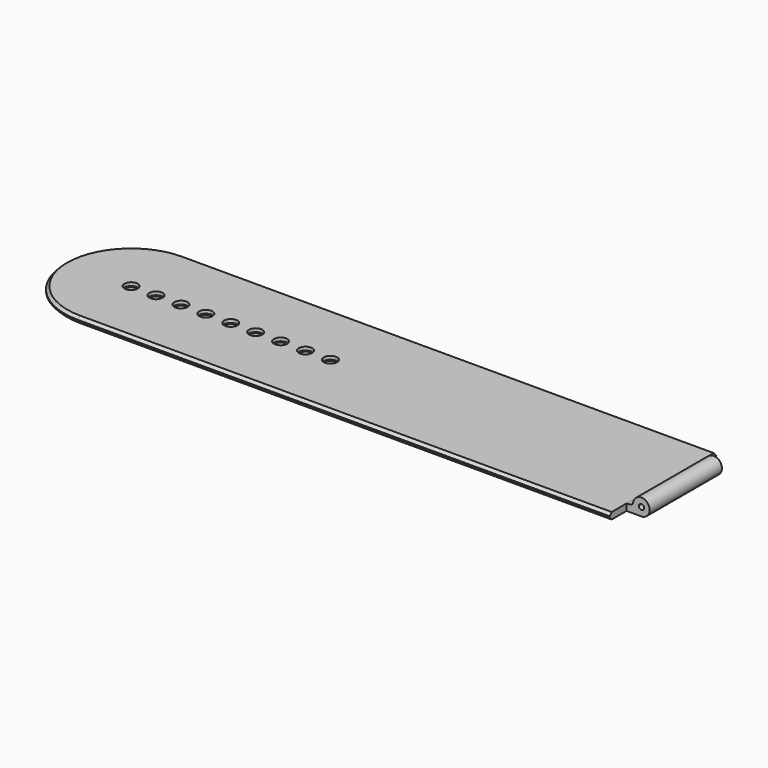
from build123d import *

# Parameters (mm, degrees)
PAD_DEPTH              = 1
PAD001_DEPTH           = 6.8
PAD001_DEPTH_BACK      = 6.8
CYLINDER_R             = 0.4
CYLINDER_DEPTH         = 13.6
CYLINDER001_R          = 1
CYLINDER001_DEPTH      = 0.5
LINEARPATTERN_COUNT    = 9
LINEARPATTERN_PITCH    = 3.75
CYLINDER002_R          = 0.7
CYLINDER002_DEPTH      = 0.5
LINEARPATTERN001_COUNT = 9
LINEARPATTERN001_PITCH = 3.75
CHAMFER_SIZE           = 0.4


with BuildPart() as part:
    # Sketch → Pad (new body)
    with BuildSketch(Plane.XY):
        with BuildLine():
            Line((0, 10), (80, 10))
            Line((80, 10), (80, -10))
            Line((0, -10), (80, -10))
            ThreePointArc((0, 10), (-10, 0), (0, -10))
        make_face()
    extrude(amount=PAD_DEPTH)

    # Sketch002 (on Sketch) → Pad001 (join, two sides)
    with BuildSketch(Plane.XZ) as pad001_sk:
        with BuildLine():
            Line((80, 0), (82.25, 0))
            ThreePointArc((82.25, 0), (83.090481, 2.14888), (80.972274, 1.233843))
            ThreePointArc((80, 1), (80.503859, 1.043236), (80.972274, 1.233843))
            Line((80, 1), (80, 0))
        make_face()
    extrude(amount=PAD001_DEPTH)
    extrude(pad001_sk.sketch, amount=-PAD001_DEPTH_BACK)

    # Cylinder → Cylinder (cut)
    with BuildSketch(Plane(origin=(82.25, 6.8, 1.25), x_dir=(1, 0, 0), z_dir=(0, -1, 0))):
        Circle(CYLINDER_R)
    extrude(amount=CYLINDER_DEPTH, mode=Mode.SUBTRACT)

    # Cylinder001 → Cylinder001 (cut)
    with BuildSketch(Plane.XY.offset(0.5)):
        Circle(CYLINDER001_R)
    cylinder001 = extrude(amount=CYLINDER001_DEPTH, mode=Mode.SUBTRACT)

    # LinearPattern: Cylinder001 ×9
    with Locations(*[(i * LINEARPATTERN_PITCH, 0, 0) for i in range(1, LINEARPATTERN_COUNT)]):
        add(cylinder001, mode=Mode.SUBTRACT)

    # Cylinder002 → Cylinder002 (cut)
    with BuildSketch(Plane.XY):
        Circle(CYLINDER002_R)
    cylinder002 = extrude(amount=CYLINDER002_DEPTH, mode=Mode.SUBTRACT)

    # LinearPattern001: Cylinder002 ×9
    with Locations(*[(i * LINEARPATTERN001_PITCH, 0, 0) for i in range(1, LINEARPATTERN001_COUNT)]):
        add(cylinder002, mode=Mode.SUBTRACT)

    # Chamfer
    chamfer_edges = [part.edges().sort_by_distance(p)[0] for p in [
        (40, -10, 1),
        (40, 10, 1),
        (-10, 0, 1),
        (40, 10, 0),
        (40, -10, 0),
        (-10, 0, 0),
    ]]
    chamfer(chamfer_edges, length=CHAMFER_SIZE)


solid = part.part
